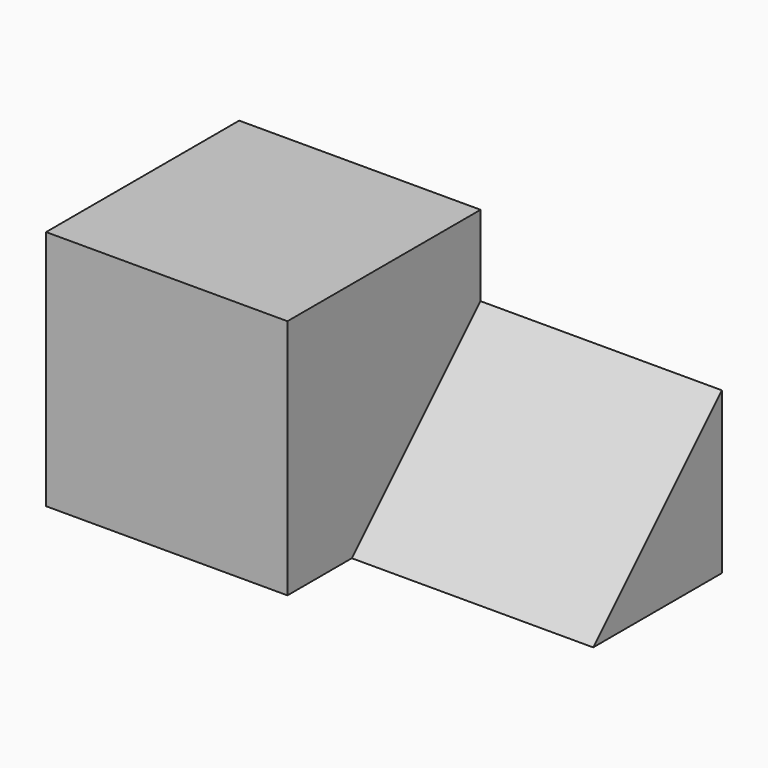
from build123d import *

# Parameters (mm, degrees)
F0_W     = 15
F0_H     = 15
F1_DEPTH = 15
F2_W     = 10
F2_H     = 10
F3_DEPTH = 15
F5_DEPTH = 15


with BuildPart() as f1:
    # F0 (on Top) → F1 (new body)
    with BuildSketch(Plane.XY):
        with Locations((-51.381428, -46.260179)):
            Rectangle(F0_W, F0_H)
    extrude(amount=F1_DEPTH)

    # F2 (on face) → F3 (join)
    with BuildSketch(Plane.YZ.offset(-43.881428)):
        with Locations((-43.760179, 5)):
            Rectangle(F2_W, F2_H)
    extrude(amount=F3_DEPTH)

    # F4 (on face) → F5 (cut)
    with BuildSketch(Plane.YZ.offset(-28.881428)):
        Polygon((-48.760179, 0), (-38.760179, 10), (-48.760179, 10), align=None)
    extrude(amount=-F5_DEPTH, mode=Mode.SUBTRACT)


solid = f1.part
